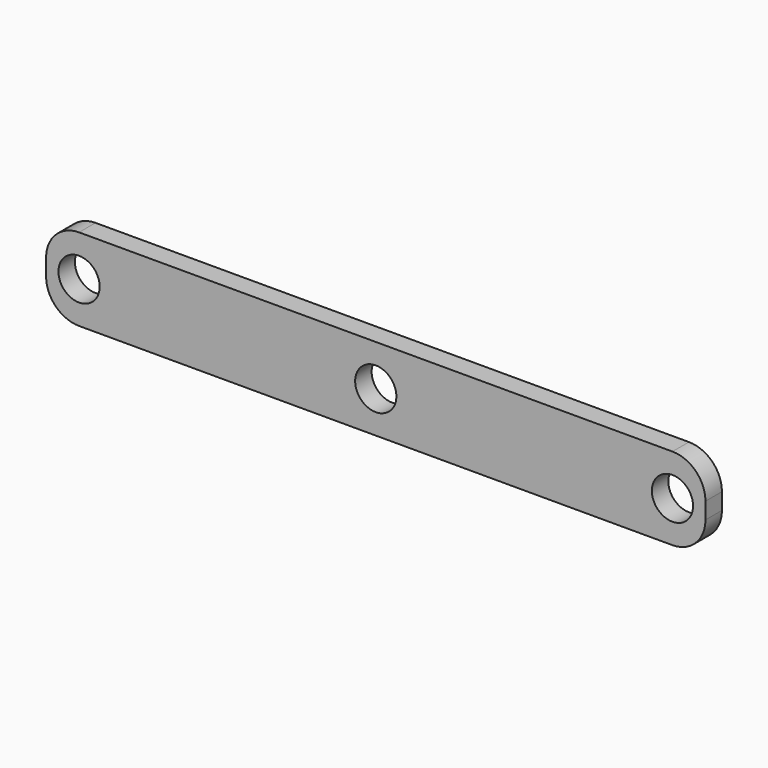
from build123d import *

# Parameters (mm, degrees)
F0_R     = 6.35
F1_DEPTH = 6.35


with BuildPart() as f1:
    # F0 (on Front) → F1 (new body)
    with BuildSketch(Plane.XZ):
        with BuildLine():
            ThreePointArc((101.6, 2.54), (98.624205, 9.724205), (91.44, 12.7))
            Line((91.44, 12.7), (-91.44, 12.7))
            ThreePointArc((-91.44, 12.7), (-98.624205, 9.724205), (-101.6, 2.54))
            Line((-101.6, 2.54), (-101.6, -2.54))
            ThreePointArc((-101.6, -2.54), (-98.624205, -9.724205), (-91.44, -12.7))
            Line((-91.44, -12.7), (91.44, -12.7))
            ThreePointArc((91.44, -12.7), (98.624205, -9.724205), (101.6, -2.54))
            Line((101.6, -2.54), (101.6, 2.54))
        make_face()
        with Locations((-91.44, 0)):
            Circle(F0_R, mode=Mode.SUBTRACT)
        Circle(F0_R, mode=Mode.SUBTRACT)
        with Locations((91.44, 0)):
            Circle(F0_R, mode=Mode.SUBTRACT)
    extrude(amount=F1_DEPTH)


solid = f1.part
